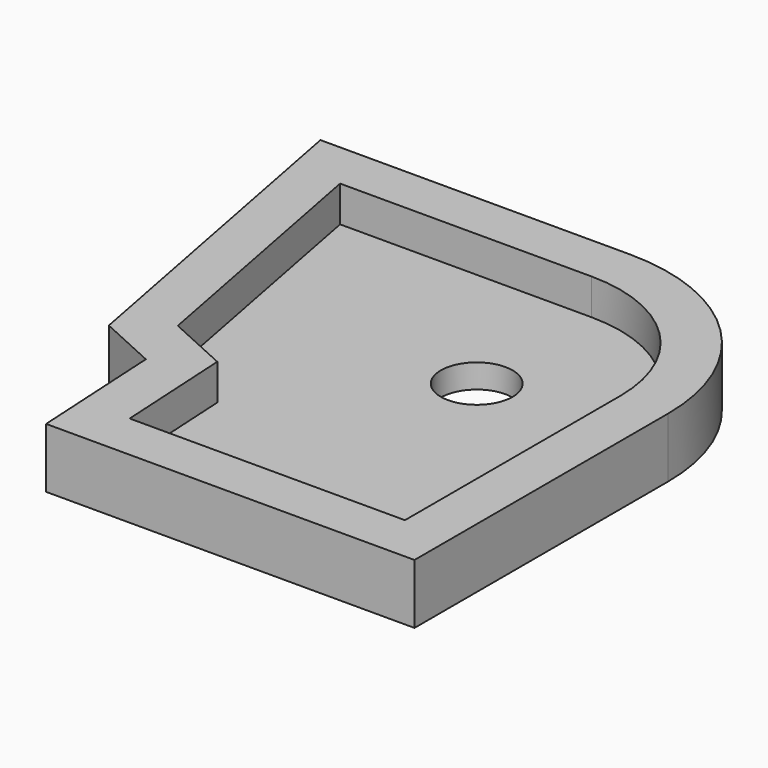
from build123d import *

# Parameters (mm, degrees)
F1_DEPTH = 5
F0_R     = 3
F2_DEPTH = 2


with BuildPart() as f1:
    # F0 (on Top) → F1 (new body)
    with BuildSketch(Plane.XY):
        with BuildLine():
            Line((-37.891807, 37.535832), (-32.305211, 8.452272))
            Line((-32.305211, 8.452272), (-27.438076, 6.233315))
            Line((-27.438076, 6.233315), (-26.815993, -4.964168))
            Line((-26.815993, -4.964168), (3.967952, -4.964168))
            Line((3.967952, -4.964168), (3.967952, 21.535832))
            ThreePointArc((3.967952, 21.535832), (-0.718339, 32.84954), (-12.032048, 37.535832))
            Line((-12.032048, 37.535832), (-37.891807, 37.535832))
        make_face()
        with BuildLine():
            Line((-23.578376, 8.869743), (-28.766631, 11.235102))
            Line((-28.766631, 11.235102), (-33.050329, 33.535832))
            Line((-33.050329, 33.535832), (-12.032048, 33.535832))
            ThreePointArc((-12.032048, 33.535832), (-3.546766, 30.021113), (-0.032048, 21.535832))
            Line((-0.032048, 21.535832), (-0.032048, -0.964168))
            Line((-0.032048, -0.964168), (-23.032048, -0.964168))
            Line((-23.032048, -0.964168), (-23.578376, 8.869743))
        make_face(mode=Mode.SUBTRACT)
    extrude(amount=F1_DEPTH)

    # F0 (on Top) → F2 (join)
    with BuildSketch(Plane.XY):
        with BuildLine():
            Line((-33.050329, 33.535832), (-28.766631, 11.235102))
            Line((-28.766631, 11.235102), (-23.578376, 8.869743))
            Line((-23.578376, 8.869743), (-23.032048, -0.964168))
            Line((-23.032048, -0.964168), (-0.032048, -0.964168))
            Line((-0.032048, -0.964168), (-0.032048, 21.535832))
            ThreePointArc((-0.032048, 21.535832), (-3.546766, 30.021113), (-12.032048, 33.535832))
            Line((-12.032048, 33.535832), (-33.050329, 33.535832))
        make_face()
        with Locations((-12.032048, 21.535832)):
            Circle(F0_R, mode=Mode.SUBTRACT)
    extrude(amount=F2_DEPTH)


solid = f1.part
